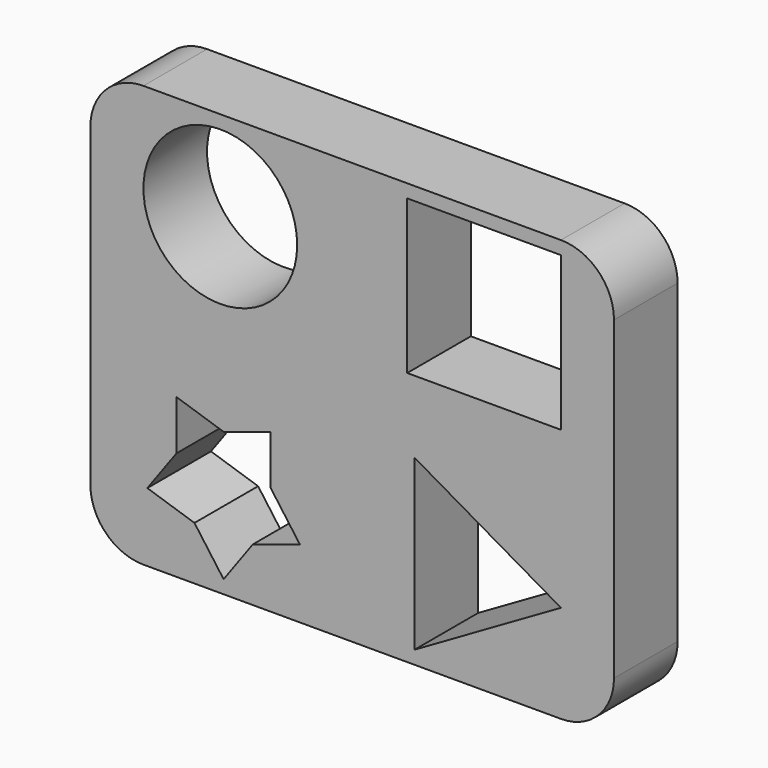
from build123d import *

# Parameters (mm, degrees)
F0_R     = 7.366
F0_W     = 14.732
F0_H     = 14.732
F1_DEPTH = 7.62
F2_T     = -0.254


with BuildPart() as f1:
    # F0 (on Front) → F1 (new body)
    with BuildSketch(Plane.XZ):
        with BuildLine():
            ThreePointArc((0, 5.08), (1.4878975516, 1.4878975516), (5.08, 0))
            Line((5.08, 0), (45.085, 0))
            ThreePointArc((45.085, 0), (48.6771024484, 1.4878975516), (50.165, 5.08))
            Line((50.165, 5.08), (50.165, 35.306))
            ThreePointArc((50.165, 35.306), (48.6771024484, 38.8981024484), (45.085, 40.386))
            Line((45.085, 40.386), (5.08, 40.386))
            ThreePointArc((5.08, 40.386), (1.4878975516, 38.8981024484), (0, 35.306))
            Line((0, 35.306), (0, 5.08))
        make_face()
        Polygon((8.247252014, 10.4209179237), (8.247252014, 15.1695820763), (12.7635, 13.7021641526), (17.279747986, 15.1695820763), (17.279747986, 10.4209179237), (20.070942743, 6.5791679237), (15.554694757, 5.11175), (12.7635, 1.27), (9.972305243, 5.11175), (5.456057257, 6.5791679237), align=None, mode=Mode.SUBTRACT)
        Polygon((31.0508851266, 1.27), (31.0508851266, 17.4752), (45.085, 9.3726), align=None, mode=Mode.SUBTRACT)
        with Locations((12.446, 31.75)):
            Circle(F0_R, mode=Mode.SUBTRACT)
        with Locations((37.719, 31.75)):
            Rectangle(F0_W, F0_H, mode=Mode.SUBTRACT)
    extrude(amount=F1_DEPTH)

    # F2
    f2_openings = [f1.faces().sort_by_distance(p)[0] for p in [
        (24.73979, 0, 18.729195),
    ]]
    offset(amount=F2_T, openings=f2_openings, kind=Kind.INTERSECTION)


solid = f1.part
